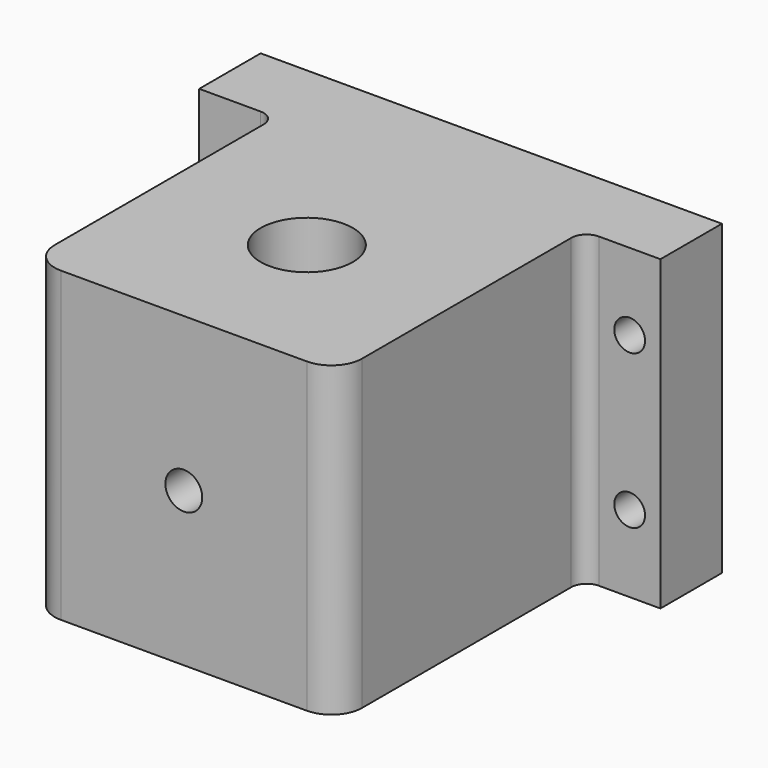
from build123d import *

# Parameters (mm, degrees)
F0_W     = 100
F0_H     = 100
F1_DEPTH = 100
F2_R     = 10
F3_R     = 15
F4_DEPTH = 100.001
F5_R     = 6
F6_DEPTH = 36.2532730151
F7_W     = 150
F7_H     = 100
F8_DEPTH = 25
F9_R     = 5
F11_D    = 10


with BuildPart() as f1:
    # F0 (on Front) → F1 (new body)
    with BuildSketch(Plane.XZ):
        Rectangle(F0_W, F0_H)
    extrude(amount=F1_DEPTH)

    # F2
    f2_edges = [f1.edges().sort_by_distance(p)[0] for p in [
        (50, -100, 0),
        (-50, -100, 0),
    ]]
    fillet(f2_edges, radius=F2_R)

    # F3 (on face) → F4 (cut, through all)
    with BuildSketch(Plane.XY.offset(50)):
        with Locations((0, -50)):
            Circle(F3_R)
    extrude(amount=-F4_DEPTH, mode=Mode.SUBTRACT)

    # F5 (on face) → F6 (cut, through all)
    with BuildSketch(Plane.XZ.offset(100)):
        Circle(F5_R)
    extrude(amount=-F6_DEPTH, mode=Mode.SUBTRACT)

    # F7 (on Front) → F8 (join)
    with BuildSketch(Plane.XZ):
        Rectangle(F7_W, F7_H)
    extrude(amount=-F8_DEPTH)

    # F9
    f9_edges = [f1.edges().sort_by_distance(p)[0] for p in [
        (50, 0, 0),
        (-50, 0, 0),
    ]]
    fillet(f9_edges, radius=F9_R)

    # F11 (through all)
    with Locations(Plane.XZ):
        with Locations((-65, 25), (-65, -25), (65, 25), (65, -25)):
            Hole(F11_D / 2)


solid = f1.part
